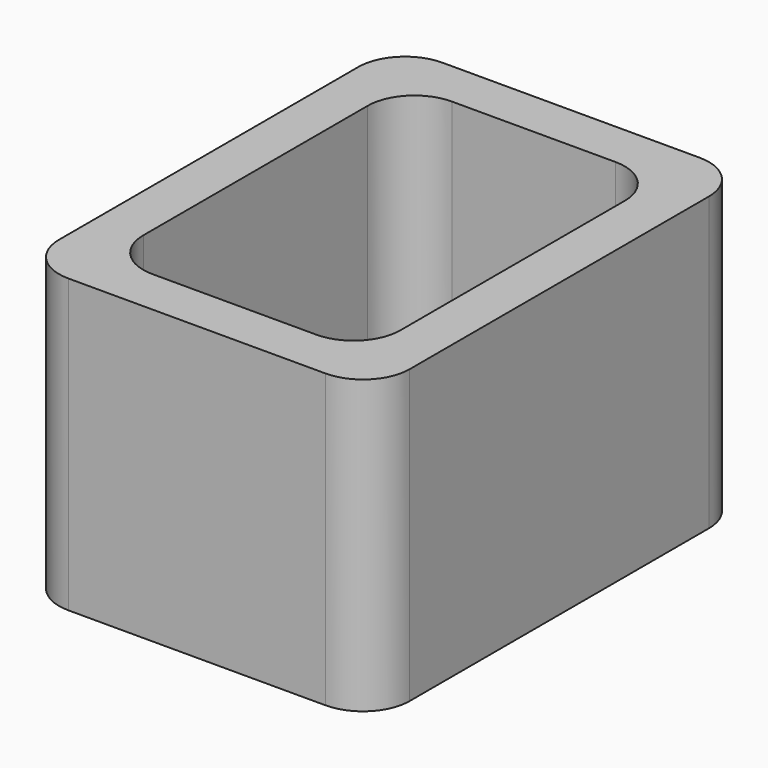
from build123d import *

# Parameters (mm, degrees)
F1_DEPTH = 12.5


with BuildPart() as f1:
    # F0 (on Top) → F1 (new body)
    with BuildSketch(Plane.XY):
        with BuildLine():
            ThreePointArc((0, 2), (0.585786, 0.585786), (2, 0))
            Line((2, 0), (13, 0))
            ThreePointArc((13, 0), (14.414214, 0.585786), (15, 2))
            Line((15, 2), (15, 18))
            ThreePointArc((15, 18), (14.414214, 19.414214), (13, 20))
            Line((13, 20), (2, 20))
            ThreePointArc((2, 20), (0.585786, 19.414214), (0, 18))
            Line((0, 18), (0, 2))
        make_face()
        with BuildLine():
            ThreePointArc((2, 16), (2.585786, 17.414214), (4, 18))
            Line((4, 18), (11, 18))
            ThreePointArc((11, 18), (12.414214, 17.414214), (13, 16))
            Line((13, 16), (13, 4))
            ThreePointArc((13, 4), (12.414214, 2.585786), (11, 2))
            Line((11, 2), (4, 2))
            ThreePointArc((4, 2), (2.585786, 2.585786), (2, 4))
            Line((2, 4), (2, 16))
        make_face(mode=Mode.SUBTRACT)
        with BuildLine():
            ThreePointArc((0, 2), (0.585786, 0.585786), (2, 0))
            Line((2, 0), (13, 0))
            ThreePointArc((13, 0), (14.414214, 0.585786), (15, 2))
            Line((15, 2), (15, 18))
            ThreePointArc((15, 18), (14.414214, 19.414214), (13, 20))
            Line((13, 20), (2, 20))
            ThreePointArc((2, 20), (0.585786, 19.414214), (0, 18))
            Line((0, 18), (0, 2))
        make_face()
        with BuildLine():
            ThreePointArc((2, 16), (2.585786, 17.414214), (4, 18))
            Line((4, 18), (11, 18))
            ThreePointArc((11, 18), (12.414214, 17.414214), (13, 16))
            Line((13, 16), (13, 4))
            ThreePointArc((13, 4), (12.414214, 2.585786), (11, 2))
            Line((11, 2), (4, 2))
            ThreePointArc((4, 2), (2.585786, 2.585786), (2, 4))
            Line((2, 4), (2, 16))
        make_face(mode=Mode.SUBTRACT)
    extrude(amount=F1_DEPTH)


solid = f1.part
